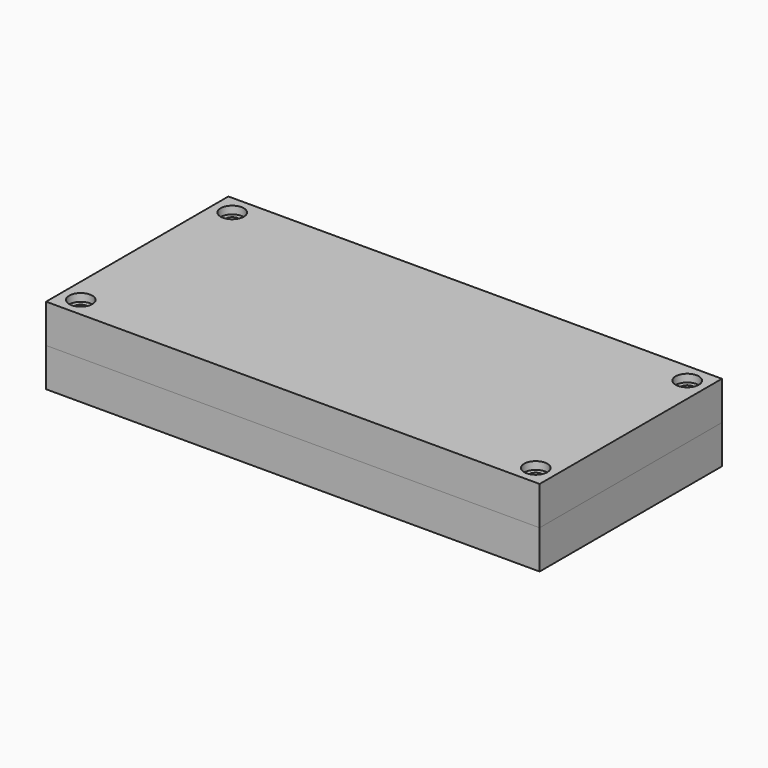
from build123d import *

# Parameters (mm, degrees)
F1_W      = 64
F1_H      = 29.55
F2_DEPTH  = 5
F0_W      = 54
F0_H      = 19.55
F3_DEPTH  = 2.45
F5_DEPTH  = 2.451
F6_R      = 1.5
F7_DEPTH  = 1
F8_D      = 1.778
F9_W      = 5.1171027571
F9_H      = 3.4193800107
F9_W_2    = 5
F9_H_2    = 12.55
F9_W_3    = 4
F9_H_3    = 2
F10_DEPTH = 1.225


with BuildPart() as f2:
    # F1 (on Top) → F2 (new body)
    with BuildSketch(Plane.XY):
        Rectangle(F1_W, F1_H)
    extrude(amount=F2_DEPTH)

    # F0 (on Top) → F3 (cut, through all)
    with BuildSketch(Plane.XY):
        Rectangle(F0_W, F0_H)
    extrude(amount=F3_DEPTH, mode=Mode.SUBTRACT)

    # F4 (on face) → F5 (cut, through all)
    with BuildSketch(Plane(origin=(0, 0, 2.45), x_dir=(1, 0, 0), z_dir=(0, 0, -1))):
        Polygon((-27, 6.275), (-32, 6.275), (-32, 0), (-32, -6.275), (-27, -6.275), align=None)
    extrude(amount=F5_DEPTH, mode=Mode.SUBTRACT)

    # F6 (on face) → F7 (cut)
    with BuildSketch(Plane.XY.offset(5)):
        with Locations((-29.5, -12.275)):
            Circle(F6_R)
        with Locations((-29.5, 12.275)):
            Circle(F6_R)
        with Locations((29.5, 12.275)):
            Circle(F6_R)
        with Locations((29.5, -12.275)):
            Circle(F6_R)
    extrude(amount=-F7_DEPTH, mode=Mode.SUBTRACT)

    # F8 (through all)
    with Locations(Plane.XY.offset(5)):
        with Locations((-29.5, 12.275), (-29.5, -12.275), (29.5, 12.275), (29.5, -12.275)):
            Hole(F8_D / 2)

    # F9 (on face) → F10 (join, through all)
    with BuildSketch(Plane(origin=(0, 0, 2.45), x_dir=(1, 0, 0), z_dir=(0, 0, -1))):
        with Locations((-24.4414486215, 8.0653099947)):
            Rectangle(F9_W, F9_H)
        with Locations((-29.5, 0)):
            Rectangle(F9_W_2, F9_H_2)
        with Locations((25, 8.775)):
            Rectangle(F9_W_3, F9_H_3)
    extrude(amount=F10_DEPTH)


with BuildPart() as f11_1:
    # F11: instance of F2
    add(f2.part.mirror(Plane.XY))


solid = Compound([f2.part, f11_1.part])
